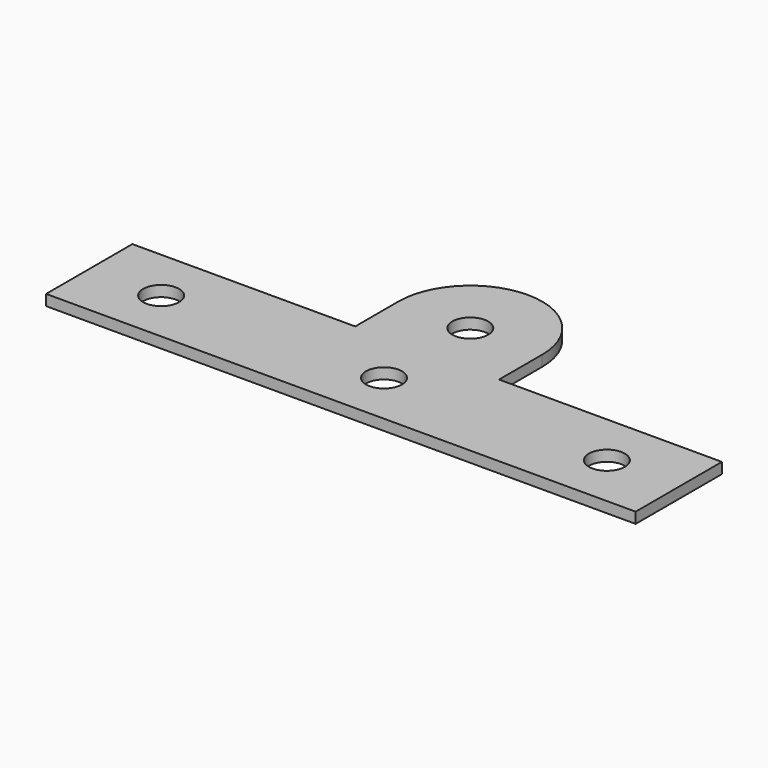
from build123d import *

# Parameters (mm, degrees)
F0_R     = 2.5
F1_DEPTH = 0.75


with BuildPart() as f1:
    # F0 (on Top) → F1 (new body, symmetric)
    with BuildSketch(Plane.XY):
        with BuildLine():
            Line((-10, 7.5), (-41, 7.5))
            Line((-41, 7.5), (-41, -7.5))
            Line((-41, -7.5), (41, -7.5))
            Line((41, -7.5), (41, 7.5))
            Line((41, 7.5), (10, 7.5))
            Line((10, 7.5), (10, 15))
            ThreePointArc((10, 15), (0, 25), (-10, 15))
            Line((-10, 15), (-10, 7.5))
        make_face()
        with Locations((-31, 0)):
            Circle(F0_R, mode=Mode.SUBTRACT)
        Circle(F0_R, mode=Mode.SUBTRACT)
        with Locations((31, 0)):
            Circle(F0_R, mode=Mode.SUBTRACT)
        with Locations((0, 15)):
            Circle(F0_R, mode=Mode.SUBTRACT)
    extrude(amount=F1_DEPTH, both=True)


solid = f1.part
